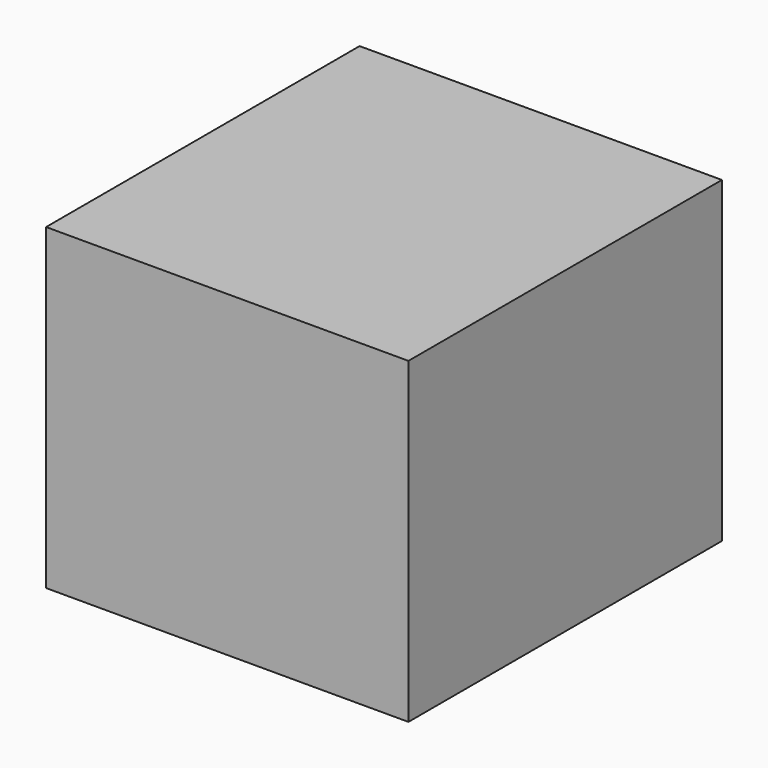
from build123d import *

# Parameters (mm, degrees)
F1_W     = 79.8
F1_H     = 86.3
F1_W_2   = 75.8
F1_H_2   = 82.3
F2_DEPTH = 70
F3_DEPTH = 2
F4_R     = 3.35
F4_R_2   = 1.35
F4_R_3   = 2.8
F4_R_4   = 0.8
F5_DEPTH = 5


with BuildPart() as f2:
    # F1 (on Top) → F2 (new body)
    with BuildSketch(Plane.XY):
        with Locations((21.9, 25.15)):
            Rectangle(F1_W, F1_H)
        with Locations((21.9, 25.15)):
            Rectangle(F1_W_2, F1_H_2, mode=Mode.SUBTRACT)
    extrude(amount=-F2_DEPTH)

    # F1 (on Top) → F3 (join)
    with BuildSketch(Plane.XY):
        with Locations((21.9, 25.15)):
            Rectangle(F1_W_2, F1_H_2)
    extrude(amount=-F3_DEPTH)

    # F4 (on Top) → F5 (join)
    with BuildSketch(Plane.XY):
        with Locations((22.5, 6.3)):
            Circle(F4_R)
        with Locations((22.5, 6.3)):
            Circle(F4_R_2, mode=Mode.SUBTRACT)
        with Locations((42.2, 23.7)):
            Circle(F4_R_3)
        with Locations((42.2, 23.7)):
            Circle(F4_R_4, mode=Mode.SUBTRACT)
        with Locations((22.4, 29.5)):
            Circle(F4_R_3)
        with Locations((22.4, 29.5)):
            Circle(F4_R_4, mode=Mode.SUBTRACT)
        with Locations((4.2, 40)):
            Circle(F4_R_3)
        with Locations((4.2, 40)):
            Circle(F4_R_4, mode=Mode.SUBTRACT)
        with Locations((43.8, 42.1)):
            Circle(F4_R_3)
        with Locations((43.8, 42.1)):
            Circle(F4_R_4, mode=Mode.SUBTRACT)
        with Locations((31.3, 50.3)):
            Circle(F4_R_3)
        with Locations((31.3, 50.3)):
            Circle(F4_R_4, mode=Mode.SUBTRACT)
    extrude(amount=-F5_DEPTH)


solid = f2.part
